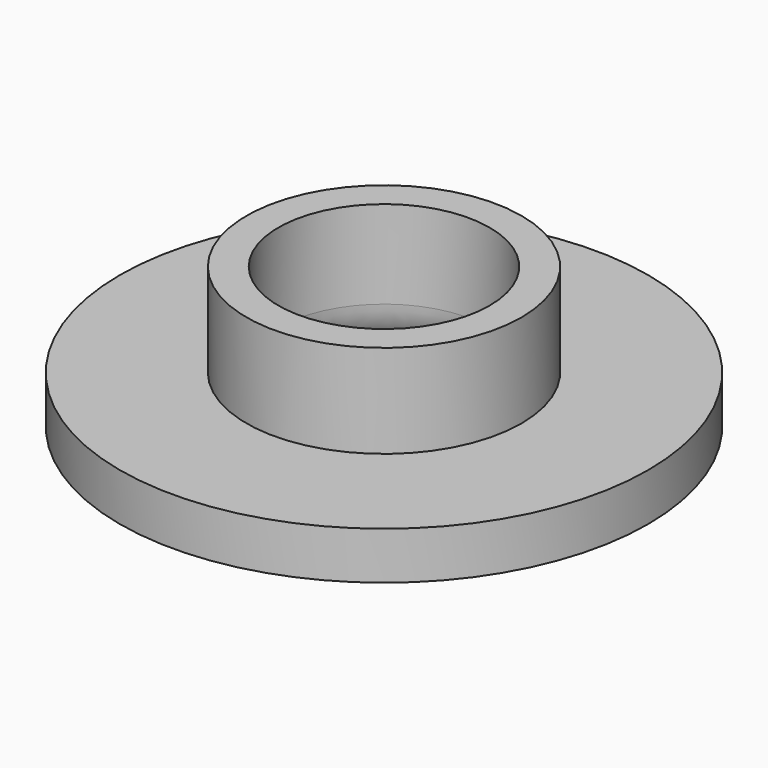
from build123d import *

# Parameters (mm, degrees)
F0_R     = 9.525
F0_R_2   = 4.960938
F1_DEPTH = 1.7145
F0_R_3   = 3.81
F2_DEPTH = 5.08
F3_R     = 1.905


with BuildPart() as f1:
    # F0 (on Top) → F1 (new body)
    with BuildSketch(Plane.XY):
        Circle(F0_R)
        Circle(F0_R_2, mode=Mode.SUBTRACT)
    extrude(amount=F1_DEPTH)

    # F0 (on Top) → F2 (join)
    with BuildSketch(Plane.XY):
        Circle(F0_R_2)
        Circle(F0_R_3, mode=Mode.SUBTRACT)
    extrude(amount=F2_DEPTH)

    # F3
    f3_edges = [f1.edges().sort_by_distance(p)[0] for p in [
        (-3.81, 0, 0),
    ]]
    fillet(f3_edges, radius=F3_R)


solid = f1.part
